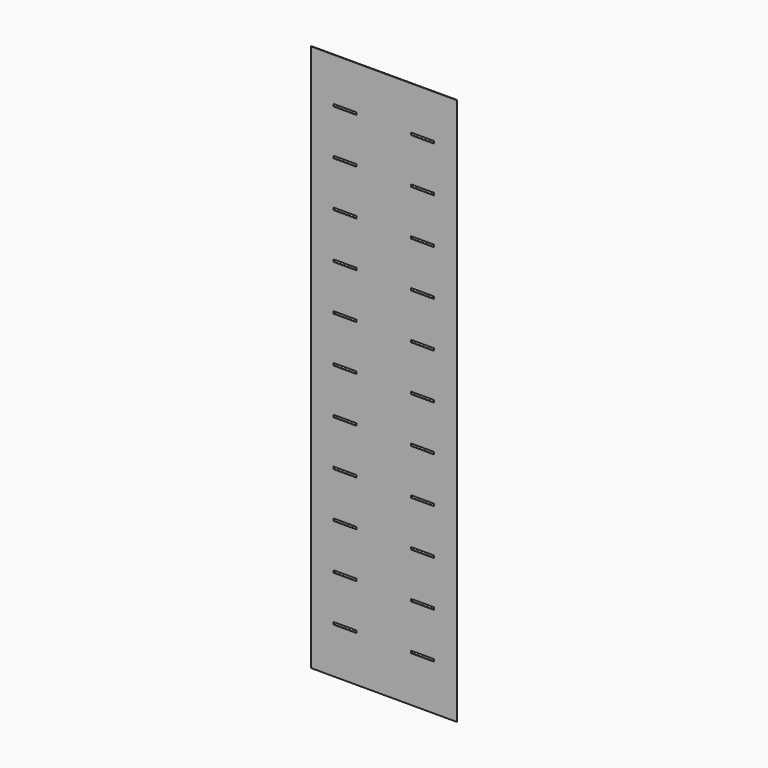
from build123d import *

# Parameters (mm, degrees)
F0_W     = 320
F0_H     = 1200
F0_W_2   = 50
F0_H_2   = 5
F1_DEPTH = 1


with BuildPart() as f1:
    # F0 (on Front) → F1 (new body)
    with BuildSketch(Plane.XZ):
        with Locations((-152.156877, 582.444344)):
            Rectangle(F0_W, F0_H)
        with Locations((-237.156877, 84.944344)):
            Rectangle(F0_W_2, F0_H_2, mode=Mode.SUBTRACT)
        with Locations((-237.156877, 184.944344)):
            Rectangle(F0_W_2, F0_H_2, mode=Mode.SUBTRACT)
        with Locations((-237.156877, 284.944344)):
            Rectangle(F0_W_2, F0_H_2, mode=Mode.SUBTRACT)
        with Locations((-237.156877, 384.944344)):
            Rectangle(F0_W_2, F0_H_2, mode=Mode.SUBTRACT)
        with Locations((-237.156877, 484.944344)):
            Rectangle(F0_W_2, F0_H_2, mode=Mode.SUBTRACT)
        with Locations((-67.156877, 84.944344)):
            Rectangle(F0_W_2, F0_H_2, mode=Mode.SUBTRACT)
        with Locations((-67.156877, 184.944344)):
            Rectangle(F0_W_2, F0_H_2, mode=Mode.SUBTRACT)
        with Locations((-67.156877, 284.944344)):
            Rectangle(F0_W_2, F0_H_2, mode=Mode.SUBTRACT)
        with Locations((-67.156877, 384.944344)):
            Rectangle(F0_W_2, F0_H_2, mode=Mode.SUBTRACT)
        with Locations((-67.156877, 484.944344)):
            Rectangle(F0_W_2, F0_H_2, mode=Mode.SUBTRACT)
        with Locations((-237.156877, 584.944344)):
            Rectangle(F0_W_2, F0_H_2, mode=Mode.SUBTRACT)
        with Locations((-237.156877, 684.944344)):
            Rectangle(F0_W_2, F0_H_2, mode=Mode.SUBTRACT)
        with Locations((-237.156877, 784.944344)):
            Rectangle(F0_W_2, F0_H_2, mode=Mode.SUBTRACT)
        with Locations((-237.156877, 884.944344)):
            Rectangle(F0_W_2, F0_H_2, mode=Mode.SUBTRACT)
        with Locations((-237.156877, 984.944344)):
            Rectangle(F0_W_2, F0_H_2, mode=Mode.SUBTRACT)
        with Locations((-237.156877, 1084.944344)):
            Rectangle(F0_W_2, F0_H_2, mode=Mode.SUBTRACT)
        with Locations((-67.156877, 584.944344)):
            Rectangle(F0_W_2, F0_H_2, mode=Mode.SUBTRACT)
        with Locations((-67.156877, 684.944344)):
            Rectangle(F0_W_2, F0_H_2, mode=Mode.SUBTRACT)
        with Locations((-67.156877, 784.944344)):
            Rectangle(F0_W_2, F0_H_2, mode=Mode.SUBTRACT)
        with Locations((-67.156877, 884.944344)):
            Rectangle(F0_W_2, F0_H_2, mode=Mode.SUBTRACT)
        with Locations((-67.156877, 984.944344)):
            Rectangle(F0_W_2, F0_H_2, mode=Mode.SUBTRACT)
        with Locations((-67.156877, 1084.944344)):
            Rectangle(F0_W_2, F0_H_2, mode=Mode.SUBTRACT)
    extrude(amount=F1_DEPTH)


solid = f1.part
